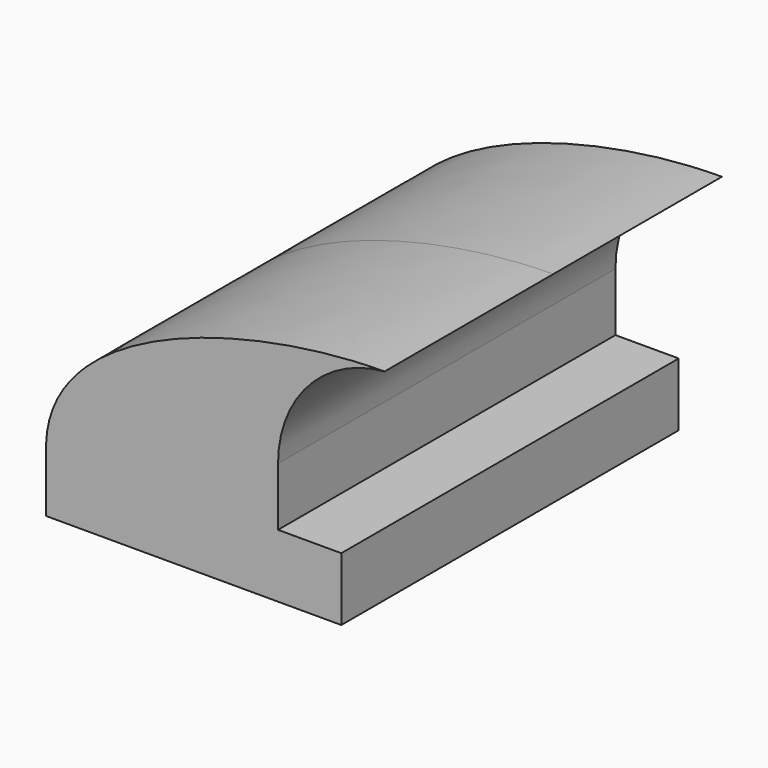
from build123d import *

# Parameters (mm, degrees)
F1_DEPTH = 63.5


with BuildPart() as f1:
    # F0 (on Front) → F1 (new body, symmetric)
    with BuildSketch(Plane.XZ):
        with BuildLine():
            add(Edge.make_bspline(
                [(-44.45, 9.525), (-43.35564, 44.791281), (17.002137, 61.9252), (57.461475, 61.9252)],
                knots=[0, 0, 0, 0, 114.593759, 114.593759, 114.593759, 114.593759], degree=3))
            Line((-44.45, 9.525), (25.4, 9.525))
            Line((25.4, 9.525), (25.4, 27.117789))
            ThreePointArc((25.4, 27.117789), (34.636829, 50.779436), (57.461475, 61.9252))
        make_face()
        Polygon((-44.45, -9.525), (44.45, -9.525), (44.45, 9.525), (25.4, 9.525), (-44.45, 9.525), align=None)
    extrude(amount=F1_DEPTH, both=True)


solid = f1.part
